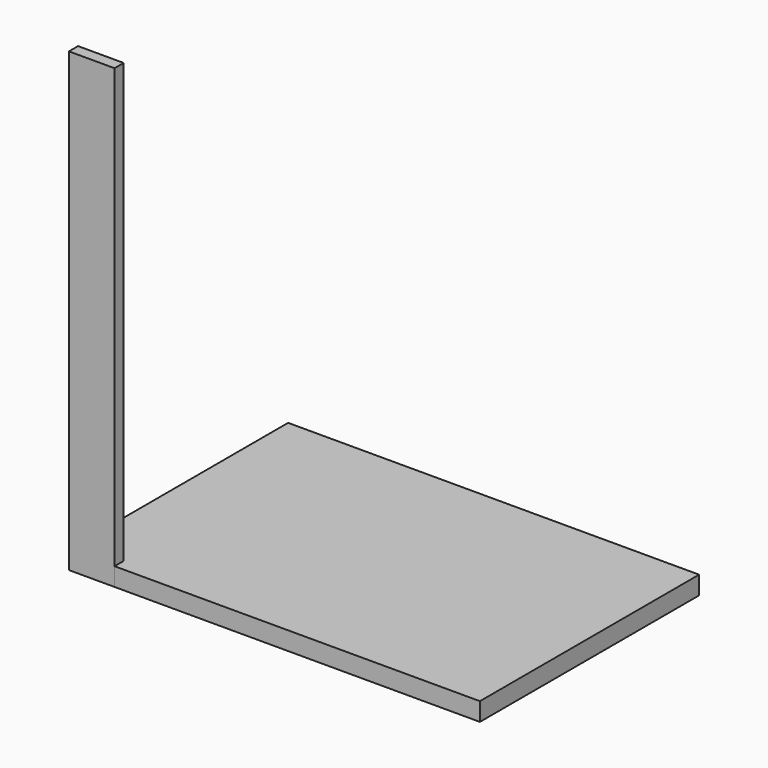
from build123d import *

# Parameters (mm, degrees)
F0_W     = 180
F0_H     = 120
F1_DEPTH = 8
F2_W     = 20
F2_H     = 200
F3_DEPTH = 5


with BuildPart() as f1:
    # F0 (on Top) → F1 (new body)
    with BuildSketch(Plane.XY):
        with Locations((90, 60)):
            Rectangle(F0_W, F0_H)
    extrude(amount=F1_DEPTH)


with BuildPart() as f3:
    # F2 (on Front) → F3 (new body)
    with BuildSketch(Plane.XZ):
        with Locations((10, 100)):
            Rectangle(F2_W, F2_H)
    extrude(amount=-F3_DEPTH)


solid = Compound([f1.part, f3.part])
